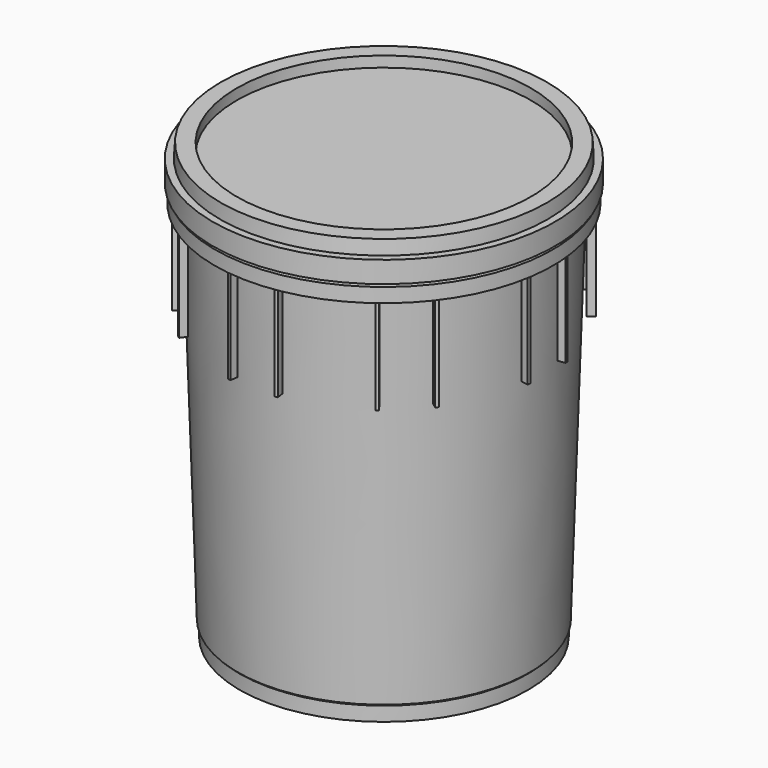
from build123d import *

# Parameters (mm, degrees)
PAD_DEPTH          = 95.25
POLARPATTERN_COUNT = 8
SKETCH007_R        = 1.524


with BuildPart() as bucket:
    # Sketch005 → Revolution (revolve)
    with BuildSketch(Plane.XZ):
        Polygon((-128.5875, 0), (-128.5875, 12.7), (-130.175, 14.2875), (-141.050894, 349.265049), (-147.503979, 349.265049), (-147.503979, 339.740049), (-150.678979, 339.740049), (-150.678979, 352.440049), (-141.153979, 352.440049), (-142.08125, 381), (-138.904577, 381), (-127.049869, 15.875), (0, 15.875), (0, 12.7), (-9.525, 12.7), (-9.525, 6.985), (-12.7, 6.985), (-12.7, 12.7), (-34.925, 12.7), (-34.925, 6.985), (-38.1, 6.985), (-38.1, 12.7), (-125.4125, 12.7), (-125.4125, 0), align=None)
    revolve(axis=Axis((0, 0, 0), (0, 0, 1)))

    # Sketch (on Face4 of Revolution) → Pad (new body)
    with BuildSketch(Plane(origin=(0, 0, 349.265049), x_dir=(1, 0, 0), z_dir=(0, 0, -1))):
        with BuildLine():
            ThreePointArc((-19.685154, 146.184536), (-20.95587, 146.007792), (-22.225, 145.820003))
            Line((-21.252689, 139.44059), (-22.225, 145.820003))
            ThreePointArc((-18.712689, 139.804113), (-19.983515, 139.628127), (-21.252689, 139.44059))
            Line((-19.685154, 146.184536), (-18.712689, 139.804113))
        make_face()
        with BuildLine():
            ThreePointArc((22.225, 145.820003), (20.95587, 146.007792), (19.685154, 146.184536))
            Line((19.685154, 146.184536), (18.712689, 139.804113))
            ThreePointArc((21.252689, 139.44059), (19.983515, 139.628127), (18.712689, 139.804113))
            Line((22.225, 145.820003), (21.252689, 139.44059))
        make_face()
    pad = extrude(amount=PAD_DEPTH)

    # PolarPattern: Pad ×8 about axis
    polarpattern_axis = Axis((0, 0, 349.265049), (0, 0, -1))
    for i in range(1, POLARPATTERN_COUNT):
        add(pad.rotate(polarpattern_axis, i * 360 / POLARPATTERN_COUNT))


with BuildPart() as lid:
    # Sketch006 → Revolution001 (revolve)
    with BuildSketch(Plane.XZ):
        Polygon((-152.4, 0), (-152.4, 19.05), (-146.05, 19.05), (-145.288, 31.75), (-131.0005, 31.75), (-131.0005, 22.225), (0, 22.225), (0, 19.05), (-134.1755, 19.05), (-134.1755, 28.575), (-135.69379, 28.575), (-135.69379, 26.035), (-138.86879, 26.035), (-138.86879, 28.575), (-142.29779, 28.575), (-143.05979, 15.875), (-149.225, 15.875), (-149.225, 0), align=None)
    revolve(axis=Axis((0, 0, 0), (0, 0, 1)))


with BuildPart() as lid_1:
    # Body placement: moved
    add(lid.part.moved(Location((0, 0, 355.6))))


with BuildPart() as oring:
    # Sketch007 → Revolution002 (revolve)
    with BuildSketch(Plane.XZ):
        with Locations((-140.55725, 0)):
            Circle(SKETCH007_R)
    revolve(axis=Axis((0, 0, 0), (0, 0, 1)))


with BuildPart() as oring_1:
    # Body002 placement: moved
    add(oring.part.moved(Location((0, 0, 382.524))))


solid = Compound([bucket.part, lid_1.part, oring_1.part])
